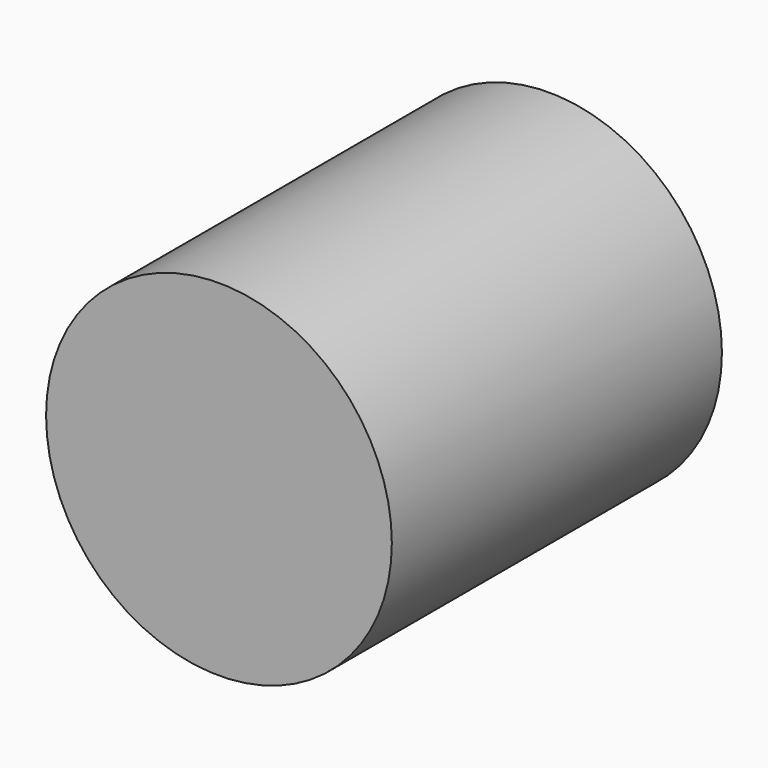
from build123d import *

# Parameters (mm, degrees)
F0_R     = 37.6711050017
F1_DEPTH = 101.6
F1_TAPER = -3
F2_DEPTH = 102.616


with BuildPart() as f1:
    # F0 (on Front) → F1 (new body)
    with BuildSketch(Plane.XZ):
        Circle(F0_R)
    extrude(amount=F1_DEPTH, taper=F1_TAPER)

    # F2 (add): a face of the model
    f2_faces = [f1.faces().sort_by_distance(p)[0] for p in [
        (0, -101.6, 0),
    ]]
    extrude(f2_faces, amount=-F2_DEPTH)


solid = f1.part
